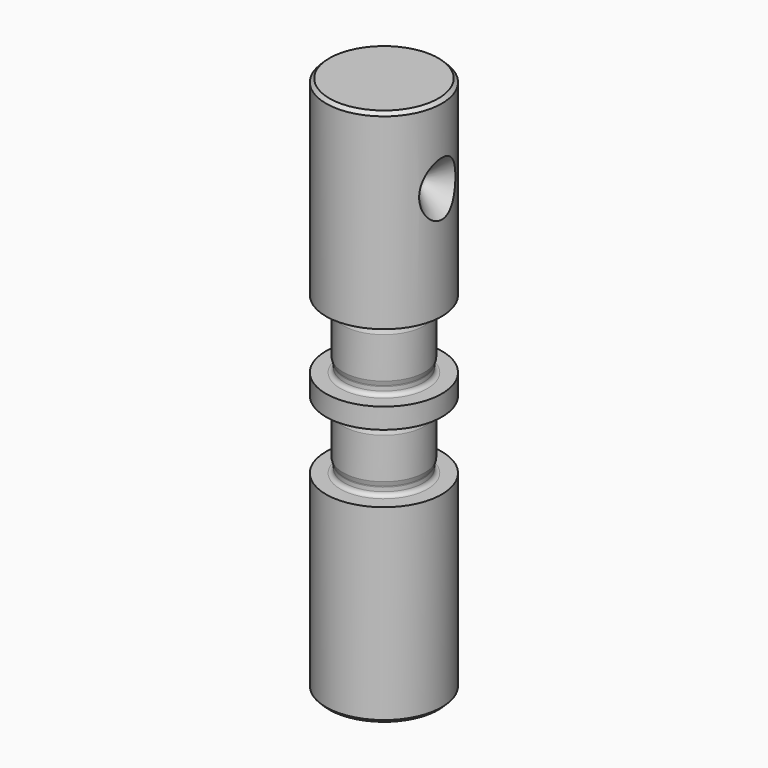
from build123d import *

# Parameters (mm, degrees)
F4_SIZE = 0.5


with BuildPart() as f1:
    # F0 (on Front) → F1 (revolve)
    with BuildSketch(Plane.XZ):
        with BuildLine():
            Line((-8.5, 0), (0, 0))
            Line((0, 0), (0, 79))
            Line((0, 79), (-8.5, 79))
            Line((-8.5, 79), (-8.5, 51))
            Line((-8.5, 51), (-6.4, 51))
            ThreePointArc((-6.4, 51), (-5.975736, 50.824264), (-5.8, 50.4))
            Line((-5.8, 50.4), (-5.8, 49.825402))
            ThreePointArc((-5.8, 49.825402), (-5.805133, 49.747086), (-5.820445, 49.67011))
            Line((-5.820445, 49.67011), (-6, 49))
            Line((-6, 49), (-6, 43))
            Line((-6, 43), (-5.820445, 42.32989))
            ThreePointArc((-5.820445, 42.32989), (-5.805133, 42.252914), (-5.8, 42.174598))
            Line((-5.8, 42.174598), (-5.8, 41.6))
            ThreePointArc((-5.8, 41.6), (-5.975736, 41.175736), (-6.4, 41))
            Line((-6.4, 41), (-8.5, 41))
            Line((-8.5, 41), (-8.5, 38))
            Line((-8.5, 38), (-6.4, 38))
            ThreePointArc((-6.4, 38), (-5.975736, 37.824264), (-5.8, 37.4))
            Line((-5.8, 37.4), (-5.8, 36.825402))
            ThreePointArc((-5.8, 36.825402), (-5.805133, 36.747086), (-5.820445, 36.67011))
            Line((-5.820445, 36.67011), (-6, 36))
            Line((-6, 36), (-6, 30))
            Line((-6, 30), (-5.820445, 29.32989))
            ThreePointArc((-5.820445, 29.32989), (-5.805133, 29.252914), (-5.8, 29.174598))
            Line((-5.8, 29.174598), (-5.8, 28.6))
            ThreePointArc((-5.8, 28.6), (-5.975736, 28.175736), (-6.4, 28))
            Line((-6.4, 28), (-8.5, 28))
            Line((-8.5, 28), (-8.5, 0))
        make_face()
    revolve(axis=Axis((0, 0, 39.5), (0, 0, -1)))

    # F2 (on Front) → F3 (revolve, cut)
    with BuildSketch(Plane.XZ):
        Polygon((8.5, 67.5), (8.5, 71.5), (4.5, 67.5), align=None)
    revolve(axis=Axis((1.375147, 0, 67.5), (1, 0, 0)), mode=Mode.SUBTRACT)

    # F4
    f4_edges = [f1.edges().sort_by_distance(p)[0] for p in [
        (8.5, 0, 79),
        (8.5, 0, 0),
    ]]
    chamfer(f4_edges, length=F4_SIZE)


solid = f1.part
